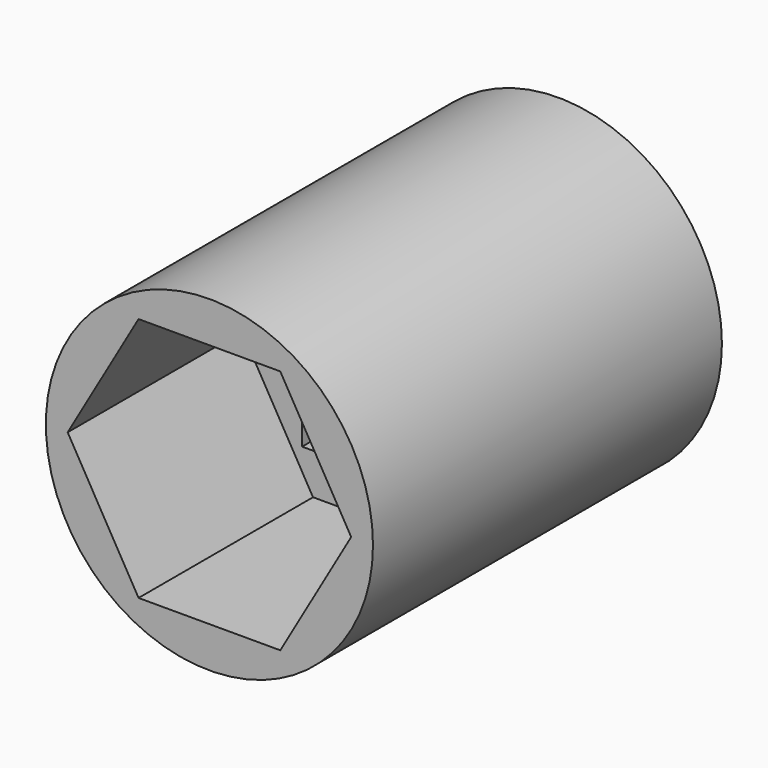
from build123d import *

# Parameters (mm, degrees)
F0_R     = 9.525
F1_DEPTH = 25.4
F3_DEPTH = 25.401
F4_DEPTH = 12.7
F6_DEPTH = 12.7


with BuildPart() as f1:
    # F0 (on Front) → F1 (new body)
    with BuildSketch(Plane.XZ):
        Circle(F0_R)
    extrude(amount=F1_DEPTH)

    # F2 (on Front) → F3 (cut, through all)
    with BuildSketch(Plane.XZ):
        with BuildLine():
            ThreePointArc((4.7625, 0), (3.367596, 3.367596), (0, 4.7625))
            ThreePointArc((0, 4.7625), (-3.367596, 3.367596), (-4.7625, 0))
            ThreePointArc((-4.7625, 0), (-3.367596, -3.367596), (0, -4.7625))
            ThreePointArc((0, -4.7625), (3.367596, -3.367596), (4.7625, 0))
        make_face()
    extrude(amount=F3_DEPTH, mode=Mode.SUBTRACT)

    # F2 (on Front) → F4 (cut)
    with BuildSketch(Plane.XZ):
        with BuildLine():
            Line((4.7625, -4.7625), (4.7625, 0))
            ThreePointArc((4.7625, 0), (3.367596, -3.367596), (0, -4.7625))
            Line((0, -4.7625), (4.7625, -4.7625))
        make_face()
        with BuildLine():
            Line((4.7625, 4.7625), (0, 4.7625))
            ThreePointArc((0, 4.7625), (3.367596, 3.367596), (4.7625, 0))
            Line((4.7625, 0), (4.7625, 4.7625))
        make_face()
        with BuildLine():
            Line((0, 4.7625), (-4.7625, 4.7625))
            Line((-4.7625, 4.7625), (-4.7625, 0))
            ThreePointArc((-4.7625, 0), (-3.367596, 3.367596), (0, 4.7625))
        make_face()
        with BuildLine():
            ThreePointArc((0, -4.7625), (-3.367596, -3.367596), (-4.7625, 0))
            Line((-4.7625, 0), (-4.7625, -4.7625))
            Line((-4.7625, -4.7625), (0, -4.7625))
        make_face()
    extrude(amount=F4_DEPTH, mode=Mode.SUBTRACT)

    # F5 (on face) → F6 (cut)
    with BuildSketch(Plane.XZ.offset(25.4)):
        Polygon((4.1275, 7.14904), (-4.1275, 7.14904), (-8.255, 0), (-4.1275, -7.14904), (4.1275, -7.14904), (8.255, 0), align=None)
    extrude(amount=-F6_DEPTH, mode=Mode.SUBTRACT)


solid = f1.part
